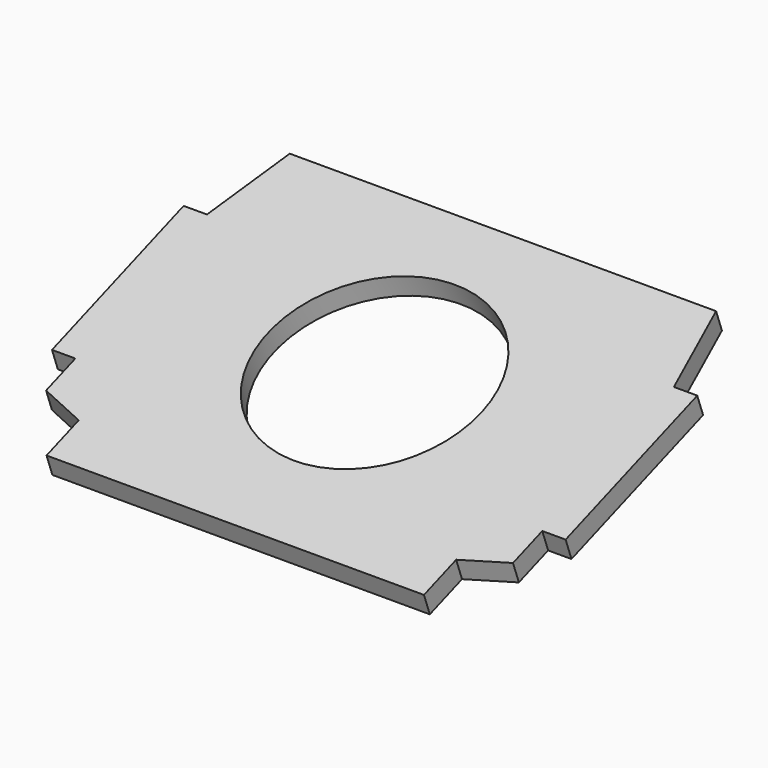
from build123d import *

# Parameters (mm, degrees)
F2_R     = 110
F3_DEPTH = 22


with BuildPart() as f3:
    # F2 (on face) → F3 (new body)
    with BuildSketch(Plane(origin=(0, 0, 0), x_dir=(1, 0, 0), z_dir=(0, 0.34202, -0.939693))):
        Polygon((-194, 183), (-194, 139), (-240, 122.426697), (-240, 82.426697), (-264, 82.426697), (-264, -97.573303), (-240, -97.573303), (-219.132979, -183), (-160, -183), (160, -183), (219.132978, -183), (240, -97.573303), (264, -97.573303), (264, 82.426697), (240, 82.426697), (240, 122.426697), (194, 139), (194, 183), align=None)
        with Locations((0, -7.573303)):
            Circle(F2_R, mode=Mode.SUBTRACT)
    extrude(amount=-F3_DEPTH)


solid = f3.part
